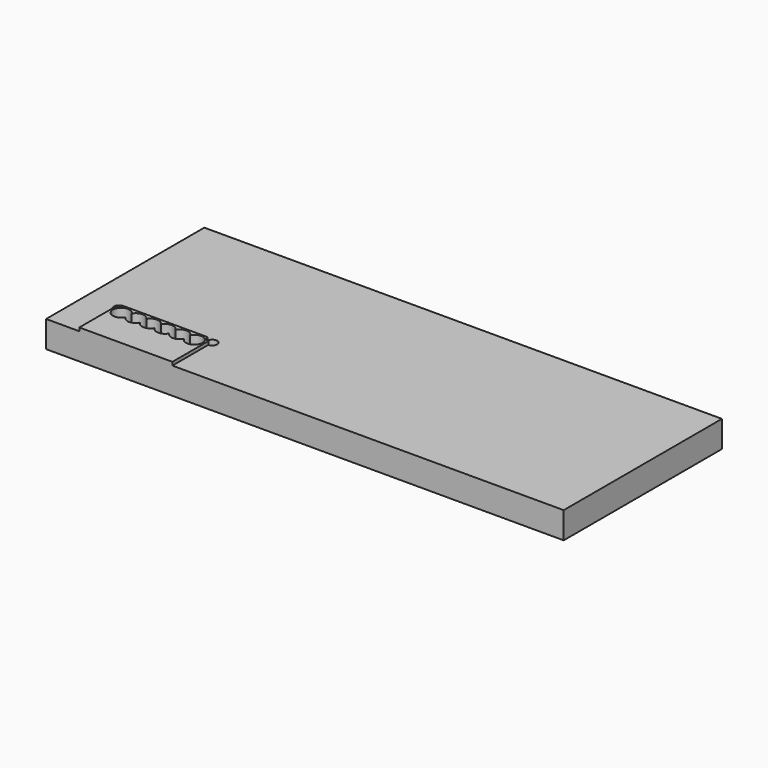
from build123d import *

# Parameters (mm, degrees)
F1_DEPTH = 8
F3_DEPTH = 1
F5_DEPTH = 25


with BuildPart() as f1:
    # F0 (on Top) → F1 (new body)
    with BuildSketch(Plane.XY):
        with BuildLine():
            Line((77.8597715207, -29.7489808303), (77.8597715207, 29.7489808303))
            Line((77.8597715207, 29.7489808303), (-77.8597715207, 29.7489808303))
            Line((-77.8597715207, 29.7489808303), (-77.8597715207, -29.7489808303))
            Line((-77.8597715207, -29.7489808303), (-67.8597715207, -29.7489808303))
            Line((-67.8597715207, -29.7489808303), (-67.8597715207, -16.2489808303))
            ThreePointArc((-67.8597715207, -16.2489808303), (-68.9204316925, -13.6883206586), (-66.3597715207, -14.7489808303))
            Line((-66.3597715207, -14.7489808303), (-41.3597715207, -14.7489808303))
            ThreePointArc((-41.3597715207, -14.7489808303), (-38.7991113489, -13.6883206586), (-39.8597715207, -16.2489808303))
            Line((-39.8597715207, -16.2489808303), (-39.8597715207, -29.7489808303))
            Line((-39.8597715207, -29.7489808303), (77.8597715207, -29.7489808303))
        make_face()
        with BuildLine():
            Line((-67.8597715207, -29.7489808303), (-39.8597715207, -29.7489808303))
            Line((-39.8597715207, -29.7489808303), (-39.8597715207, -16.2489808303))
            ThreePointArc((-39.8597715207, -16.2489808303), (-38.7991113489, -13.6883206586), (-41.3597715207, -14.7489808303))
            Line((-41.3597715207, -14.7489808303), (-66.3597715207, -14.7489808303))
            ThreePointArc((-66.3597715207, -14.7489808303), (-68.9204316925, -13.6883206586), (-67.8597715207, -16.2489808303))
            Line((-67.8597715207, -16.2489808303), (-67.8597715207, -29.7489808303))
        make_face()
    extrude(amount=F1_DEPTH)

    # F2 (on face) → F3 (join)
    with BuildSketch(Plane.XY.offset(8)):
        with BuildLine():
            Line((-67.8597715207, -16.2489808303), (-67.8597715207, -29.7489808303))
            Line((-67.8597715207, -29.7489808303), (-39.8597715207, -29.7489808303))
            Line((-39.8597715207, -29.7489808303), (-39.8597715207, -16.2489808303))
            ThreePointArc((-39.8597715207, -16.2489808303), (-38.7991113489, -13.6883206586), (-41.3597715207, -14.7489808303))
            Line((-41.3597715207, -14.7489808303), (-66.3597715207, -14.7489808303))
            ThreePointArc((-66.3597715207, -14.7489808303), (-68.9204316925, -13.6883206586), (-67.8597715207, -16.2489808303))
        make_face()
    extrude(amount=F3_DEPTH)

    # F4 (on face) → F5 (cut)
    with BuildSketch(Plane.XY.offset(9)):
        with BuildLine():
            ThreePointArc((-62.6597715207, -18.936415039), (-62.9597715207, -17.7489808303), (-62.6597715207, -16.5615466216))
            ThreePointArc((-62.6597715207, -16.5615466216), (-67.3597715207, -17.7489808303), (-62.6597715207, -18.936415039))
        make_face()
        with BuildLine():
            ThreePointArc((-62.6597715207, -16.5615466216), (-62.435931592, -17.1366083946), (-62.3597715207, -17.7489808303))
            ThreePointArc((-62.3597715207, -17.7489808303), (-62.435931592, -18.361353266), (-62.6597715207, -18.936415039))
            ThreePointArc((-62.6597715207, -18.936415039), (-60.4597715207, -20.2489808303), (-58.2597715207, -18.936415039))
            ThreePointArc((-58.2597715207, -18.936415039), (-58.5597715207, -17.7489808303), (-58.2597715207, -16.5615466216))
            ThreePointArc((-58.2597715207, -16.5615466216), (-60.4597715207, -15.2489808303), (-62.6597715207, -16.5615466216))
        make_face()
        with BuildLine():
            ThreePointArc((-53.8597715207, -16.5615466216), (-56.0597715207, -15.2489808303), (-58.2597715207, -16.5615466216))
            ThreePointArc((-58.2597715207, -16.5615466216), (-58.035931592, -17.1366083946), (-57.9597715207, -17.7489808303))
            ThreePointArc((-57.9597715207, -17.7489808303), (-58.035931592, -18.361353266), (-58.2597715207, -18.936415039))
            ThreePointArc((-58.2597715207, -18.936415039), (-56.0597715207, -20.2489808303), (-53.8597715207, -18.936415039))
            ThreePointArc((-53.8597715207, -18.936415039), (-54.1597715207, -17.7489808303), (-53.8597715207, -16.5615466216))
        make_face()
        with BuildLine():
            ThreePointArc((-49.4597715207, -16.5615466216), (-51.6597715207, -15.2489808303), (-53.8597715207, -16.5615466216))
            ThreePointArc((-53.8597715207, -16.5615466216), (-53.635931592, -17.1366083946), (-53.5597715207, -17.7489808303))
            ThreePointArc((-53.5597715207, -17.7489808303), (-53.635931592, -18.361353266), (-53.8597715207, -18.936415039))
            ThreePointArc((-53.8597715207, -18.936415039), (-51.6597715207, -20.2489808303), (-49.4597715207, -18.936415039))
            ThreePointArc((-49.4597715207, -18.936415039), (-49.7597715207, -17.7489808303), (-49.4597715207, -16.5615466216))
        make_face()
        with BuildLine():
            ThreePointArc((-45.0597715207, -16.5615466216), (-47.2597715207, -15.2489808303), (-49.4597715207, -16.5615466216))
            ThreePointArc((-49.4597715207, -16.5615466216), (-49.235931592, -17.1366083946), (-49.1597715207, -17.7489808303))
            ThreePointArc((-49.1597715207, -17.7489808303), (-49.235931592, -18.361353266), (-49.4597715207, -18.936415039))
            ThreePointArc((-49.4597715207, -18.936415039), (-47.2597715207, -20.2489808303), (-45.0597715207, -18.936415039))
            ThreePointArc((-45.0597715207, -18.936415039), (-45.3597715207, -17.7489808303), (-45.0597715207, -16.5615466216))
        make_face()
        with BuildLine():
            ThreePointArc((-40.3597715207, -17.7489808303), (-42.247399085, -15.3251409016), (-45.0597715207, -16.5615466216))
            ThreePointArc((-45.0597715207, -16.5615466216), (-44.835931592, -17.1366083946), (-44.7597715207, -17.7489808303))
            ThreePointArc((-44.7597715207, -17.7489808303), (-44.835931592, -18.361353266), (-45.0597715207, -18.936415039))
            ThreePointArc((-45.0597715207, -18.936415039), (-42.247399085, -20.1728207591), (-40.3597715207, -17.7489808303))
        make_face()
        with BuildLine():
            ThreePointArc((-57.9597715207, -17.7489808303), (-58.035931592, -17.1366083946), (-58.2597715207, -16.5615466216))
            ThreePointArc((-58.2597715207, -16.5615466216), (-58.5597715207, -17.7489808303), (-58.2597715207, -18.936415039))
            ThreePointArc((-58.2597715207, -18.936415039), (-58.035931592, -18.361353266), (-57.9597715207, -17.7489808303))
        make_face()
        with BuildLine():
            ThreePointArc((-62.6597715207, -18.936415039), (-62.435931592, -18.361353266), (-62.3597715207, -17.7489808303))
            ThreePointArc((-62.3597715207, -17.7489808303), (-62.435931592, -17.1366083946), (-62.6597715207, -16.5615466216))
            ThreePointArc((-62.6597715207, -16.5615466216), (-62.9597715207, -17.7489808303), (-62.6597715207, -18.936415039))
        make_face()
        with BuildLine():
            ThreePointArc((-53.5597715207, -17.7489808303), (-53.635931592, -17.1366083946), (-53.8597715207, -16.5615466216))
            Line((-53.8597715207, -16.5615466216), (-53.8597715207, -18.936415039))
            ThreePointArc((-53.8597715207, -18.936415039), (-53.635931592, -18.361353266), (-53.5597715207, -17.7489808303))
        make_face()
        with BuildLine():
            ThreePointArc((-49.1597715207, -17.7489808303), (-49.235931592, -17.1366083946), (-49.4597715207, -16.5615466216))
            ThreePointArc((-49.4597715207, -16.5615466216), (-49.7597715207, -17.7489808303), (-49.4597715207, -18.936415039))
            ThreePointArc((-49.4597715207, -18.936415039), (-49.235931592, -18.361353266), (-49.1597715207, -17.7489808303))
        make_face()
        with BuildLine():
            ThreePointArc((-44.7597715207, -17.7489808303), (-44.835931592, -17.1366083946), (-45.0597715207, -16.5615466216))
            ThreePointArc((-45.0597715207, -16.5615466216), (-45.3597715207, -17.7489808303), (-45.0597715207, -18.936415039))
            ThreePointArc((-45.0597715207, -18.936415039), (-44.835931592, -18.361353266), (-44.7597715207, -17.7489808303))
        make_face()
        with BuildLine():
            Line((-53.8597715207, -18.936415039), (-53.8597715207, -16.5615466216))
            ThreePointArc((-53.8597715207, -16.5615466216), (-54.1597715207, -17.7489808303), (-53.8597715207, -18.936415039))
        make_face()
        with BuildLine():
            ThreePointArc((-67.8597715207, -16.2489808303), (-66.7991113489, -15.8096410021), (-66.3597715207, -14.7489808303))
            ThreePointArc((-66.3597715207, -14.7489808303), (-68.9204316925, -13.6883206586), (-67.8597715207, -16.2489808303))
        make_face()
        with BuildLine():
            ThreePointArc((-38.3597715207, -14.7489808303), (-39.8597715207, -13.2489808303), (-41.3597715207, -14.7489808303))
            ThreePointArc((-41.3597715207, -14.7489808303), (-40.9204316925, -15.8096410021), (-39.8597715207, -16.2489808303))
            ThreePointArc((-39.8597715207, -16.2489808303), (-38.7991113489, -15.8096410021), (-38.3597715207, -14.7489808303))
        make_face()
    extrude(amount=-F5_DEPTH, mode=Mode.SUBTRACT)


solid = f1.part
